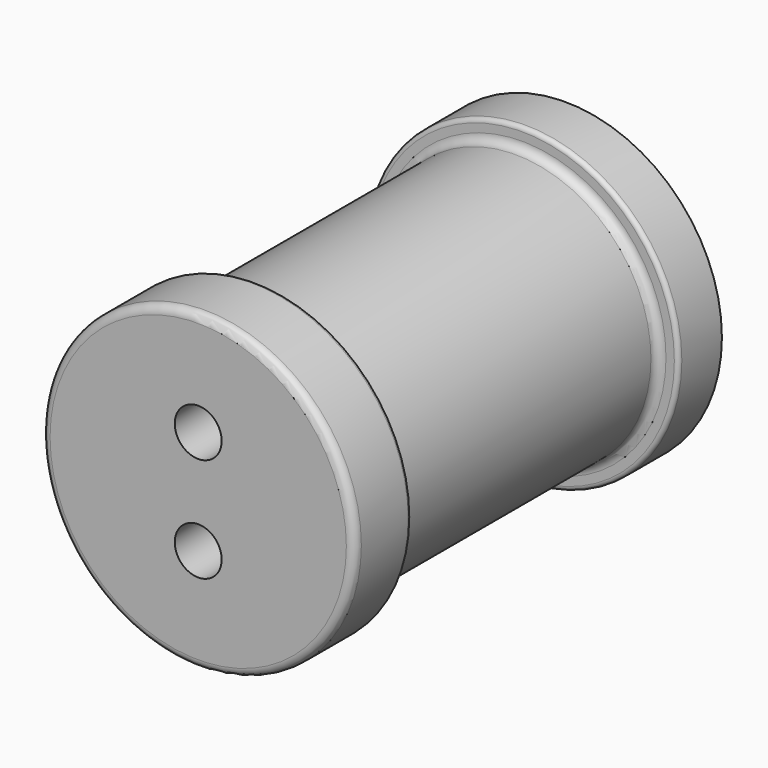
from build123d import *

# Parameters (mm, degrees)
F0_R           = 32.5
F1_DEPTH       = 80
F2_R           = 37.5
F3_DEPTH       = 13
F4_R           = 37.5
F5_DEPTH       = 17
F6_R           = 2
F8_D           = 6.6
F8_CBORE_D     = 11.25
F8_CBORE_DEPTH = 14
F9_R           = 1


with BuildPart() as f1:
    # F0 (on Front) → F1 (new body)
    with BuildSketch(Plane.XZ):
        Circle(F0_R)
    extrude(amount=F1_DEPTH)

    # F2 (on Front) → F3 (join)
    with BuildSketch(Plane.XZ):
        Circle(F2_R)
    extrude(amount=-F3_DEPTH)

    # F4 (on face) → F5 (join)
    with BuildSketch(Plane.XZ.offset(80)):
        Circle(F4_R)
    extrude(amount=F5_DEPTH)

    # F6
    f6_edges = [f1.edges().sort_by_distance(p)[0] for p in [
        (-32.5, 0, 0),
        (-37.5, -97, 0),
        (-32.5, -80, 0),
    ]]
    fillet(f6_edges, radius=F6_R)

    # F8 (through all)
    with Locations(Plane.XZ.offset(97)):
        with Locations((0, 12.5), (0, -12.5)):
            CounterBoreHole(F8_D / 2, F8_CBORE_D / 2, F8_CBORE_DEPTH)

    # F9
    f9_edges = [f1.edges().sort_by_distance(p)[0] for p in [
        (-37.5, 0, 0),
        (-37.5, -80, 0),
    ]]
    fillet(f9_edges, radius=F9_R)


solid = f1.part
